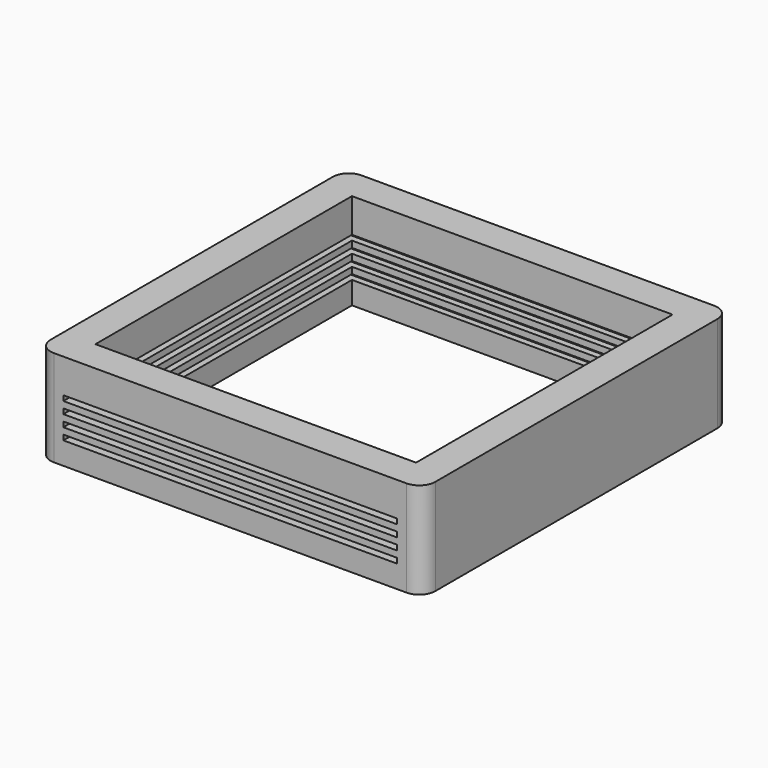
from build123d import *

# Parameters (mm, degrees)
F0_W     = 76.2
F0_H     = 76.2
F0_W_2   = 63.5
F0_H_2   = 63.5
F1_DEPTH = 9.525
F2_W     = 66.04
F2_H     = 1.016
F3_DEPTH = 38.1
F4_DEPTH = 31.75
F5_R     = 3.175
F6_DEPTH = 33.02


with BuildPart() as f1:
    # F0 (on Top) → F1 (new body, symmetric)
    with BuildSketch(Plane.XY):
        Rectangle(F0_W, F0_H)
        Rectangle(F0_W_2, F0_H_2, mode=Mode.SUBTRACT)
    extrude(amount=F1_DEPTH, both=True)

    # F2 (on Front) → F3 (cut, through all)
    with BuildSketch(Plane.XZ):
        Rectangle(F2_W, F2_H)
        with Locations((0, 2.286)):
            Rectangle(F2_W, F2_H)
        with Locations((0, -2.286)):
            Rectangle(F2_W, F2_H)
        with Locations((0, -4.572)):
            Rectangle(F2_W, F2_H)
    extrude(amount=F3_DEPTH, mode=Mode.SUBTRACT)

    # F2 (on Front) → F4 (cut)
    with BuildSketch(Plane.XZ):
        Rectangle(F2_W, F2_H)
        with Locations((0, 2.286)):
            Rectangle(F2_W, F2_H)
        with Locations((0, -2.286)):
            Rectangle(F2_W, F2_H)
        with Locations((0, -4.572)):
            Rectangle(F2_W, F2_H)
    extrude(amount=-F4_DEPTH, mode=Mode.SUBTRACT)

    # F5
    f5_edges = [f1.edges().sort_by_distance(p)[0] for p in [
        (-38.1, -38.1, 0),
        (38.1, -38.1, 0),
        (38.1, 38.1, 0),
        (-38.1, 38.1, 0),
    ]]
    fillet(f5_edges, radius=F5_R)

    # F2 (on Front) → F6 (cut)
    with BuildSketch(Plane.XZ):
        Rectangle(F2_W, F2_H)
        with Locations((0, 2.286)):
            Rectangle(F2_W, F2_H)
        with Locations((0, -2.286)):
            Rectangle(F2_W, F2_H)
        with Locations((0, -4.572)):
            Rectangle(F2_W, F2_H)
    extrude(amount=-F6_DEPTH, mode=Mode.SUBTRACT)


solid = f1.part
